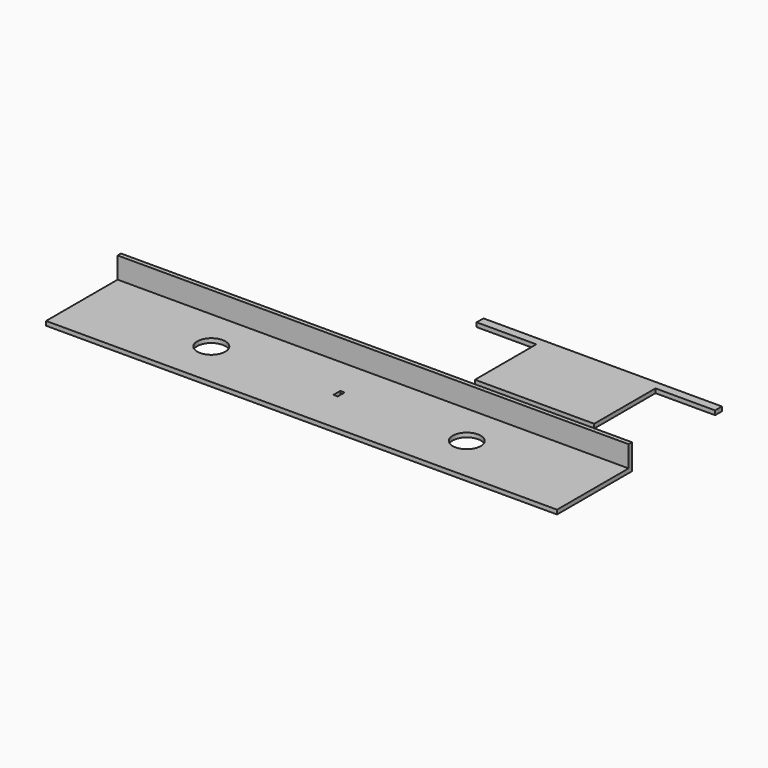
from build123d import *

# Parameters (mm, degrees)
F0_W     = 600
F0_H     = 5
F1_DEPTH = 25
F0_H_2   = 105
F0_R     = 16.5
F0_W_2   = 5.1
F0_H_3   = 10.1
F2_DEPTH = 5


with BuildPart() as f1:
    # F0 (on Top) → F1 (new body)
    with BuildSketch(Plane.XY):
        with Locations((0, 2.5)):
            Rectangle(F0_W, F0_H)
    extrude(amount=F1_DEPTH)

    # F0 (on Top) → F2 (join)
    with BuildSketch(Plane.XY):
        with Locations((0, 2.5)):
            Rectangle(F0_W, F0_H)
        with Locations((0, -52.5)):
            Rectangle(F0_W, F0_H_2)
        with Locations((-150, -50)):
            Circle(F0_R, mode=Mode.SUBTRACT)
        with Locations((0, -50)):
            Rectangle(F0_W_2, F0_H_3, mode=Mode.SUBTRACT)
        with Locations((150, -50)):
            Circle(F0_R, mode=Mode.SUBTRACT)
        Polygon((290, 149.51032), (10, 149.51032), (10, 139.51032), (80, 139.51032), (80, 49.51032), (220, 49.51032), (220, 139.51032), (290, 139.51032), align=None)
    extrude(amount=-F2_DEPTH)


solid = f1.part
